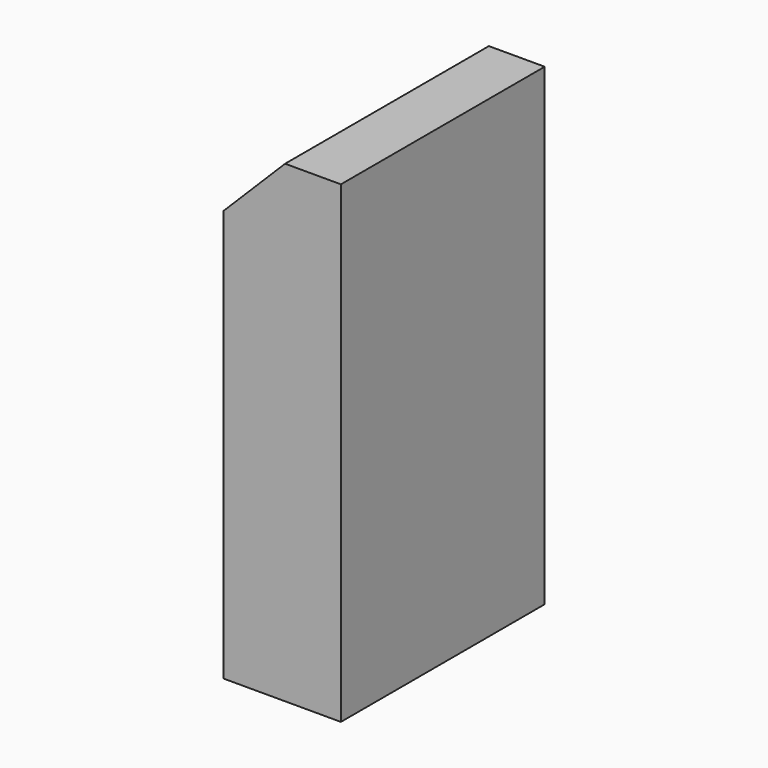
from build123d import *

# Parameters (mm, degrees)
F1_DEPTH = 82.55
F2_R     = 3.81
F3_DEPTH = 25.4
F5_D     = 6.35
F5_DEPTH = 19.05
F5_TIP   = 1.9077324654


with BuildPart() as f1:
    # F0 (on Front) → F1 (new body)
    with BuildSketch(Plane.XZ):
        Polygon((0, 121.0280880332), (0, -12.3219119668), (38.1, -12.3219119668), (38.1, 141.0432880332), (20.0152, 141.0432880332), align=None)
    extrude(amount=F1_DEPTH)

    # F2 (on face) → F3 (cut)
    with BuildSketch(Plane(origin=(0, 0, -12.3219119668), x_dir=(1, 0, 0), z_dir=(0, 0, -1))):
        with Locations((19.05, 62.23)):
            Circle(F2_R)
        with Locations((19.05, 20.32)):
            Circle(F2_R)
    extrude(amount=-F3_DEPTH, mode=Mode.SUBTRACT)

    # F5
    with Locations(Plane(origin=(-60.5140440166, 0, 60.5140440166), x_dir=(0, -1, 0), z_dir=(-0.7071067812, 0, 0.7071067812))):
        with Locations((6.35, 99.7326654091), (69.85, 99.7326654091)):
            Hole(F5_D / 2, depth=F5_DEPTH)
            with Locations((0, 0, -(F5_DEPTH + F5_TIP / 2))):  # 118° drill point
                Cone(0, F5_D / 2, F5_TIP, mode=Mode.SUBTRACT)


solid = f1.part
